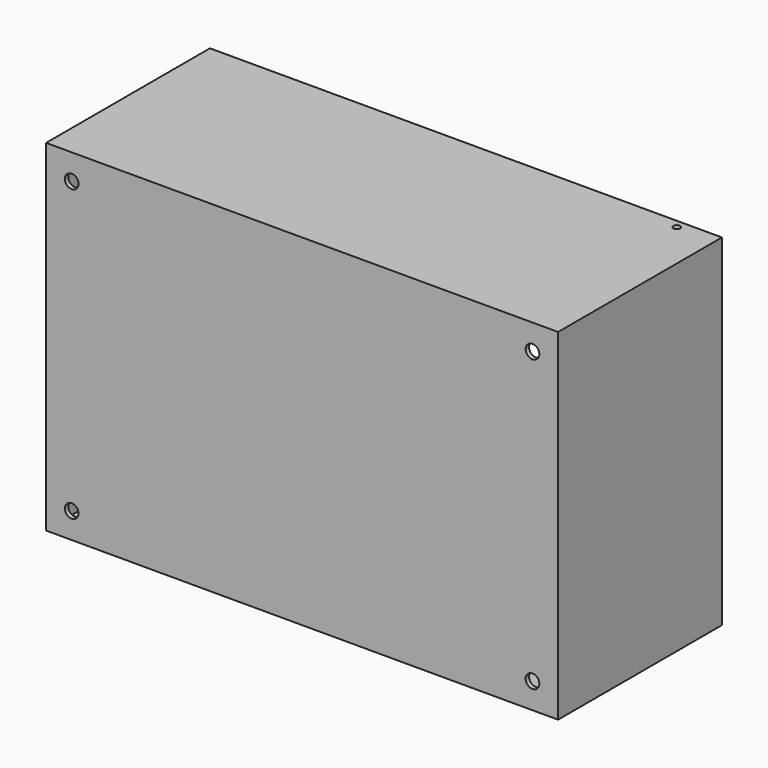
from build123d import *

# Parameters (mm, degrees)
F0_W      = 300
F0_H      = 120
F1_DEPTH  = 200
F2_T      = -2.5
F3_W      = 297.5
F3_H      = 197.5
F3_W_2    = 277.5
F3_H_2    = 177.5
F4_DEPTH  = 2.5
F5_R      = 2
F6_DEPTH  = 200.001
F7_R      = 4
F8_DEPTH  = 2.5
F9_R      = 12.5
F10_DEPTH = 25


with BuildPart() as f1:
    # F0 (on Top) → F1 (new body)
    with BuildSketch(Plane.XY):
        with Locations((150, 60)):
            Rectangle(F0_W, F0_H)
    extrude(amount=F1_DEPTH)

    # F2
    f2_openings = [f1.faces().sort_by_distance(p)[0] for p in [
        (150, 120, 100),
    ]]
    offset(amount=F2_T, openings=f2_openings)

    # F3 (on face) → F4 (join)
    with BuildSketch(Plane(origin=(0, 120, 0), x_dir=(-1, 0, 0), z_dir=(0, 1, 0))):
        with Locations((-148.75, 98.75)):
            Rectangle(F3_W, F3_H)
        with Locations((-148.75, 98.75)):
            Rectangle(F3_W_2, F3_H_2, mode=Mode.SUBTRACT)
    extrude(amount=-F4_DEPTH)

    # F5 (on face) → F6 (cut, through all)
    with BuildSketch(Plane.XY.offset(200)):
        with Locations((277.5, 115)):
            Circle(F5_R)
    extrude(amount=-F6_DEPTH, mode=Mode.SUBTRACT)

    # F7 (on face) → F8 (cut)
    with BuildSketch(Plane.XZ):
        with Locations((285, 185)):
            Circle(F7_R)
        with Locations((285, 15)):
            Circle(F7_R)
        with Locations((15, 185)):
            Circle(F7_R)
        with Locations((15, 15)):
            Circle(F7_R)
    extrude(amount=-F8_DEPTH, mode=Mode.SUBTRACT)

    # F9 (on face) → F10 (cut)
    with BuildSketch(Plane.XY):
        with Locations((70, 25)):
            Circle(F9_R)
        with Locations((150, 25)):
            Circle(F9_R)
        with Locations((230, 25)):
            Circle(F9_R)
    extrude(amount=F10_DEPTH, mode=Mode.SUBTRACT)


solid = f1.part
